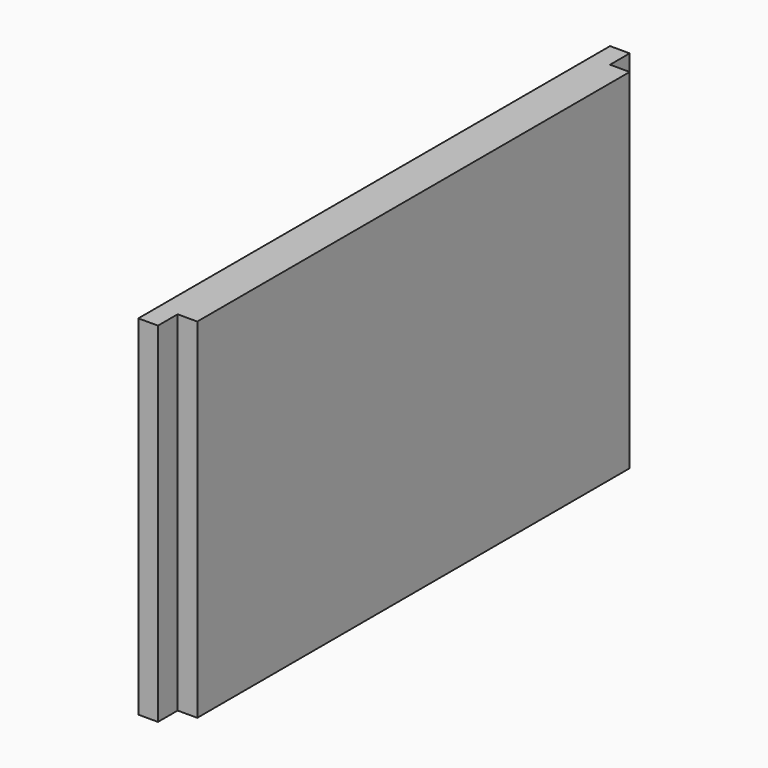
from build123d import *

# Parameters (mm, degrees)
F1_DEPTH = 35.5


with BuildPart() as f1:
    # F0 (on Top) → F1 (new body)
    with BuildSketch(Plane.XY):
        Polygon((0, -27.5), (2, -27.5), (2, 27.5), (0, 27.5), (-2, 27.5), (-2, -27.5), align=None)
        Polygon((-2, 27.5), (0, 27.5), (0, 28.75), (0, 30), (-2, 30), align=None)
        Polygon((0, -28.75), (0, -27.5), (-2, -27.5), (-2, -30), (0, -30), align=None)
    extrude(amount=-F1_DEPTH)


solid = f1.part
